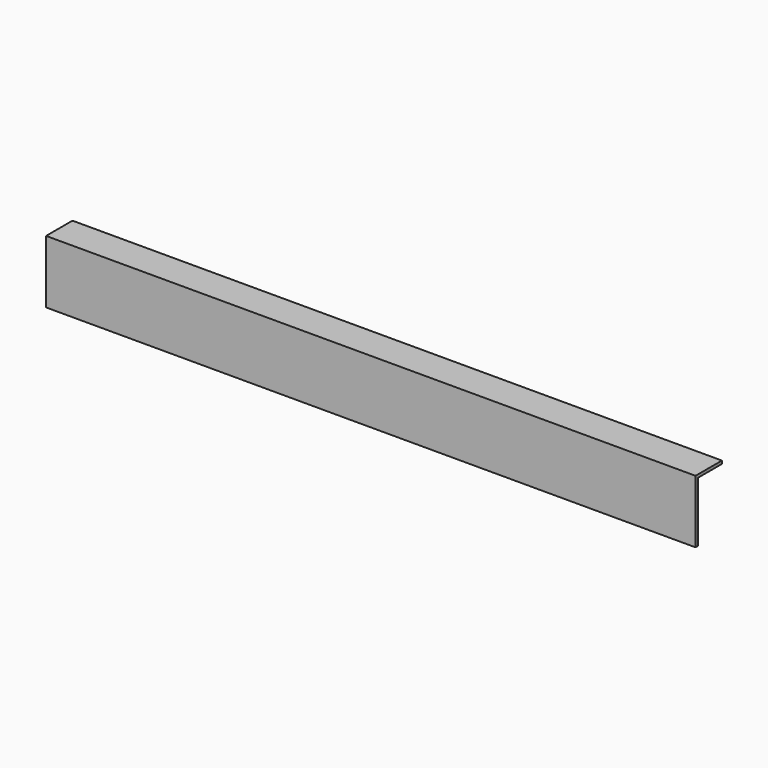
from build123d import *

# Parameters (mm, degrees)
PAD_DEPTH = 216.5


with BuildPart() as part:
    # Sketch → Pad (new body)
    with BuildSketch(Plane.YZ):
        Polygon((1, 20), (11, 20), (11, 21), (0, 21), (0, 0), (1, 0), align=None)
    extrude(amount=PAD_DEPTH)


solid = part.part
